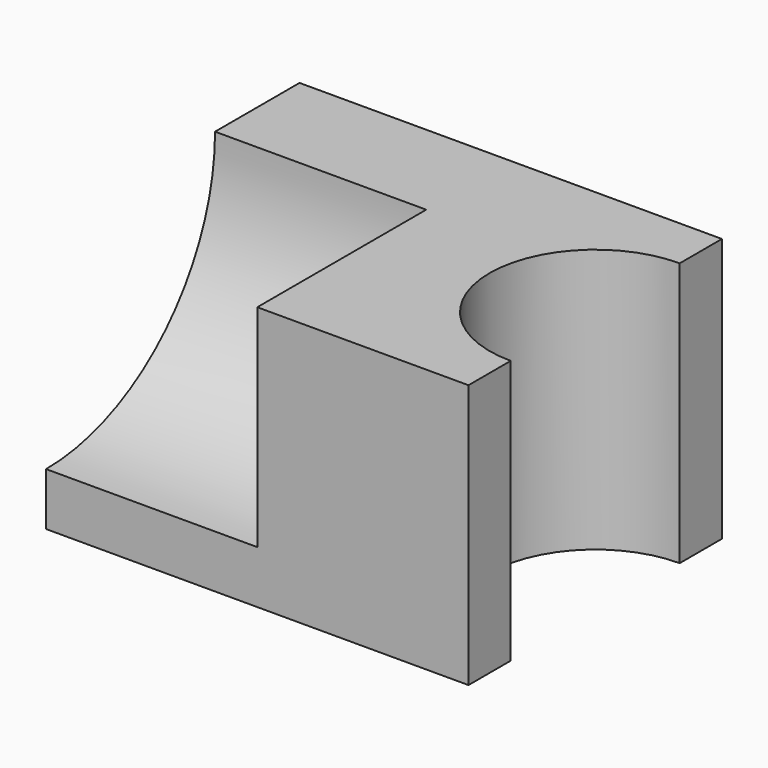
from build123d import *

# Parameters (mm, degrees)
F0_W     = 101.6
F0_H     = 63.5
F1_DEPTH = 76.2
F3_DEPTH = 63.501
F5_DEPTH = 50.8


with BuildPart() as f1:
    # F0 (on Front) → F1 (new body)
    with BuildSketch(Plane.XZ):
        with Locations((-4.662791, -20.39607)):
            Rectangle(F0_W, F0_H)
    extrude(amount=F1_DEPTH)

    # F2 (on face) → F3 (cut, through all)
    with BuildSketch(Plane.XY.offset(11.35393)):
        with BuildLine():
            Line((46.137209, -63.5), (46.137209, -12.7))
            ThreePointArc((46.137209, -12.7), (20.737209, -38.1), (46.137209, -63.5))
        make_face()
    extrude(amount=-F3_DEPTH, mode=Mode.SUBTRACT)

    # F4 (on face) → F5 (cut)
    with BuildSketch(Plane(origin=(-55.462791, 0, 0), x_dir=(0, -1, 0), z_dir=(-1, 0, 0))):
        with BuildLine():
            Line((76.2, 11.35393), (25.4, 11.35393))
            ThreePointArc((25.4, 11.35393), (40.278976, -24.567094), (76.2, -39.44607))
            Line((76.2, -39.44607), (76.2, 11.35393))
        make_face()
    extrude(amount=-F5_DEPTH, mode=Mode.SUBTRACT)


solid = f1.part
